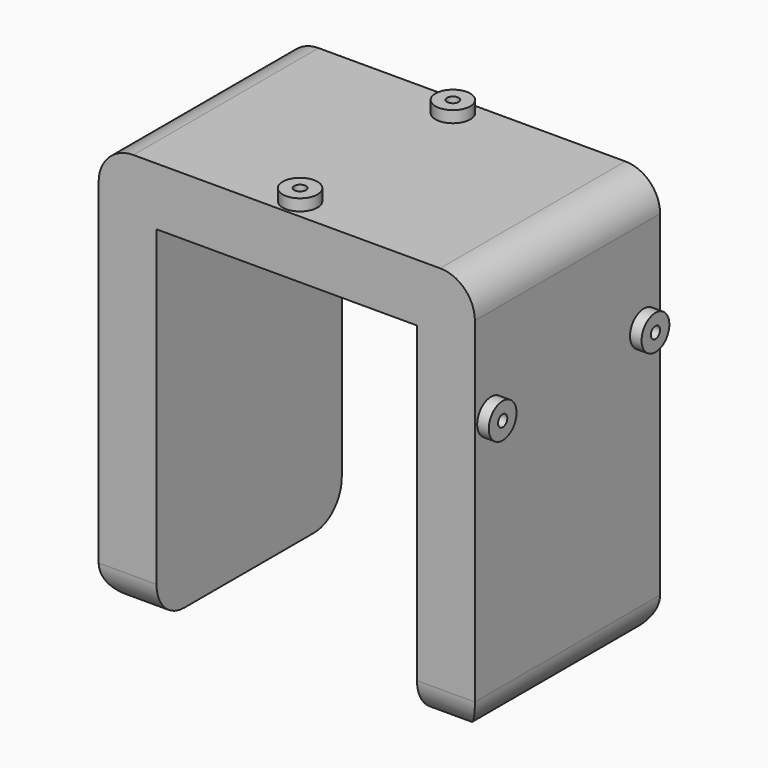
from build123d import *

# Parameters (mm, degrees)
CYLINDER013_R     = 1
CYLINDER013_DEPTH = 10
CYLINDER014_R     = 1
CYLINDER014_DEPTH = 10
CYLINDER017_R     = 1
CYLINDER017_DEPTH = 10
CYLINDER011_R     = 1
CYLINDER011_DEPTH = 10
BOX001_W          = 10
BOX001_H          = 40
BOX001_DEPTH      = 70
CYLINDER016_R     = 3
CYLINDER016_DEPTH = 10
CYLINDER015_R     = 3
CYLINDER015_DEPTH = 10
CYLINDER012_R     = 3
CYLINDER012_DEPTH = 10
CYLINDER010_R     = 3
CYLINDER010_DEPTH = 10
BOX_W             = 10
BOX_H             = 40
BOX_DEPTH         = 70
BOX002_W          = 45
BOX002_H          = 40
BOX002_DEPTH      = 10
FILLET_R          = 6


with BuildPart() as foro001:
    # Cylinder013 → Cylinder013 (new body)
    with BuildSketch(Plane(origin=(47, 36.5, 48), x_dir=(0, 0, -1), z_dir=(1, 0, 0))):
        Circle(CYLINDER013_R)
    extrude(amount=CYLINDER013_DEPTH)


with BuildPart() as foro002:
    # Cylinder014 → Cylinder014 (new body)
    with BuildSketch(Plane(origin=(22, 36.5, 62), x_dir=(1, 0, 0), z_dir=(0, 0, 1))):
        Circle(CYLINDER014_R)
    extrude(amount=CYLINDER014_DEPTH)


with BuildPart() as foro003:
    # Cylinder017 → Cylinder017 (new body)
    with BuildSketch(Plane(origin=(22, 3.5, 62), x_dir=(1, 0, 0), z_dir=(0, 0, 1))):
        Circle(CYLINDER017_R)
    extrude(amount=CYLINDER017_DEPTH)


with BuildPart() as foro:
    # Cylinder011 → Cylinder011 (new body)
    with BuildSketch(Plane(origin=(47, 3.5, 48), x_dir=(0, 0, -1), z_dir=(1, 0, 0))):
        Circle(CYLINDER011_R)
    extrude(amount=CYLINDER011_DEPTH)


with BuildPart() as cube001:
    # Box001 → Box001 (new body)
    with BuildSketch(Plane(origin=(45, 0, 0), x_dir=(1, 0, 0), z_dir=(0, 0, 1))):
        with Locations((5, 20)):
            Rectangle(BOX001_W, BOX001_H)
    extrude(amount=BOX001_DEPTH)


with BuildPart() as cylinder016:
    # Cylinder016 → Cylinder016 (new body)
    with BuildSketch(Plane(origin=(22, 3.5, 62), x_dir=(1, 0, 0), z_dir=(0, 0, 1))):
        Circle(CYLINDER016_R)
    extrude(amount=CYLINDER016_DEPTH)


with BuildPart() as cylinder015:
    # Cylinder015 → Cylinder015 (new body)
    with BuildSketch(Plane(origin=(22, 36.5, 62), x_dir=(1, 0, 0), z_dir=(0, 0, 1))):
        Circle(CYLINDER015_R)
    extrude(amount=CYLINDER015_DEPTH)


with BuildPart() as cylinder012:
    # Cylinder012 → Cylinder012 (new body)
    with BuildSketch(Plane(origin=(47, 36.5, 48), x_dir=(0, 0, -1), z_dir=(1, 0, 0))):
        Circle(CYLINDER012_R)
    extrude(amount=CYLINDER012_DEPTH)


with BuildPart() as cylinder010:
    # Cylinder010 → Cylinder010 (new body)
    with BuildSketch(Plane(origin=(47, 3.5, 48), x_dir=(0, 0, -1), z_dir=(1, 0, 0))):
        Circle(CYLINDER010_R)
    extrude(amount=CYLINDER010_DEPTH)


with BuildPart() as cube:
    # Box → Box (new body)
    with BuildSketch(Plane(origin=(-10, 0, 0), x_dir=(1, 0, 0), z_dir=(0, 0, 1))):
        with Locations((5, 20)):
            Rectangle(BOX_W, BOX_H)
    extrude(amount=BOX_DEPTH)


with BuildPart() as fillet_body:
    # Box002 → Box002 (new body)
    with BuildSketch(Plane.XY.offset(60)):
        with Locations((22.5, 20)):
            Rectangle(BOX002_W, BOX002_H)
    extrude(amount=BOX002_DEPTH)

    # Fusion: union Cube001, Cylinder016, Cylinder015, Cylinder012, Cylinder010, Cube
    add(cube001.part)
    add(cylinder016.part)
    add(cylinder015.part)
    add(cylinder012.part)
    add(cylinder010.part)
    add(cube.part)

    # Cut: cut foro
    add(foro.part, mode=Mode.SUBTRACT)

    # Cut001: cut foro003
    add(foro003.part, mode=Mode.SUBTRACT)

    # Cut002: cut foro002
    add(foro002.part, mode=Mode.SUBTRACT)

    # Cut003: cut foro001
    add(foro001.part, mode=Mode.SUBTRACT)

    # Fillet
    fillet_edges = [fillet_body.edges().sort_by_distance(p)[0] for p in [
        (50, 0, 0),
        (-5, 0, 0),
        (50, 40, 0),
        (55, 20, 0),
        (55, 20, 70),
        (-10, 20, 70),
        (-10, 20, 0),
        (-5, 40, 0),
    ]]
    fillet(fillet_edges, radius=FILLET_R)


solid = fillet_body.part
